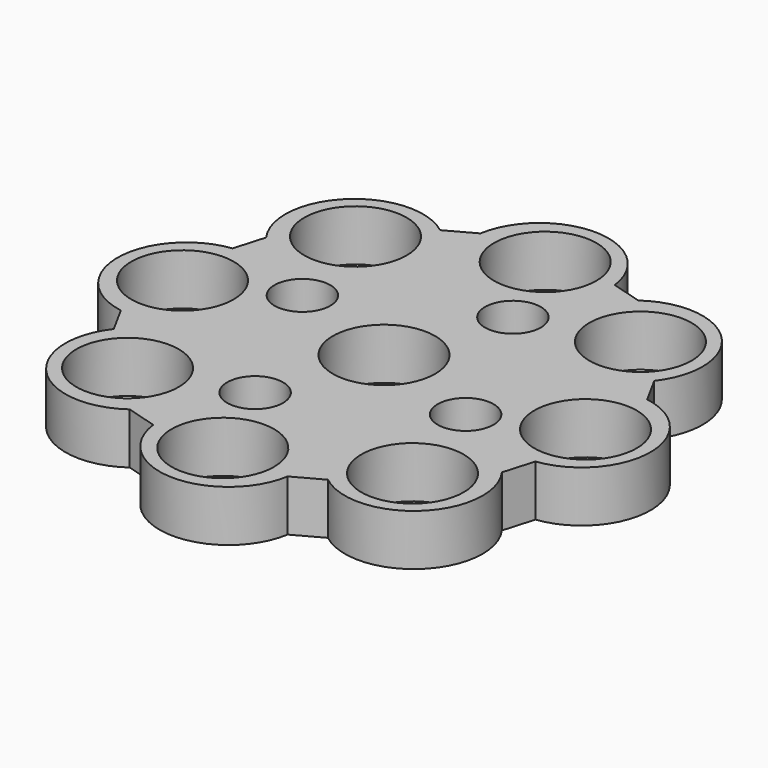
from build123d import *

# Parameters (mm, degrees)
F0_R     = 12.7
F0_R_2   = 6.927169
F1_DEPTH = 12.7


with BuildPart() as f1:
    # F0 (on Top) → F1 (new body)
    with BuildSketch(Plane.XY):
        with BuildLine():
            Line((24.191197, 48.60003), (16.581545, 50.826576))
            ThreePointArc((16.581545, 50.826576), (-0.05997, 65.800738), (-17.259652, 51.47117))
            Line((-17.259652, 51.47117), (-24.214894, 47.664739))
            ThreePointArc((-24.214894, 47.664739), (-46.570553, 46.485742), (-48.60003, 24.191197))
            Line((-48.60003, 24.191197), (-50.826576, 16.581545))
            ThreePointArc((-50.826576, 16.581545), (-65.800738, -0.05997), (-51.47117, -17.259652))
            Line((-51.47117, -17.259652), (-47.664739, -24.214894))
            ThreePointArc((-47.664739, -24.214894), (-46.485742, -46.570553), (-24.191197, -48.60003))
            Line((-24.191197, -48.60003), (-16.581545, -50.826576))
            ThreePointArc((-16.581545, -50.826576), (0.05997, -65.800738), (17.259652, -51.47117))
            Line((17.259652, -51.47117), (24.214894, -47.664739))
            ThreePointArc((24.214894, -47.664739), (46.570553, -46.485742), (48.60003, -24.191197))
            Line((48.60003, -24.191197), (50.826576, -16.581545))
            ThreePointArc((50.826576, -16.581545), (65.800738, 0.05997), (51.47117, 17.259652))
            Line((51.47117, 17.259652), (47.664739, 24.214894))
            ThreePointArc((47.664739, 24.214894), (46.485742, 46.570553), (24.191197, 48.60003))
        make_face()
        with Locations((-35.343174, -35.343174)):
            Circle(F0_R, mode=Mode.SUBTRACT)
        with Locations((-9.619523, -27.942425)):
            Circle(F0_R_2, mode=Mode.SUBTRACT)
        with Locations((0, -49.982796)):
            Circle(F0_R, mode=Mode.SUBTRACT)
        with Locations((35.343174, -35.343174)):
            Circle(F0_R, mode=Mode.SUBTRACT)
        with Locations((27.942425, -9.619523)):
            Circle(F0_R_2, mode=Mode.SUBTRACT)
        with Locations((-49.982796, 0)):
            Circle(F0_R, mode=Mode.SUBTRACT)
        with Locations((-27.942425, 9.619523)):
            Circle(F0_R_2, mode=Mode.SUBTRACT)
        with Locations((-35.343174, 35.343174)):
            Circle(F0_R, mode=Mode.SUBTRACT)
        Circle(F0_R, mode=Mode.SUBTRACT)
        with Locations((9.619523, 27.942425)):
            Circle(F0_R_2, mode=Mode.SUBTRACT)
        with Locations((49.982796, 0)):
            Circle(F0_R, mode=Mode.SUBTRACT)
        with Locations((0, 49.982796)):
            Circle(F0_R, mode=Mode.SUBTRACT)
        with Locations((35.343174, 35.343174)):
            Circle(F0_R, mode=Mode.SUBTRACT)
    extrude(amount=F1_DEPTH)


solid = f1.part
